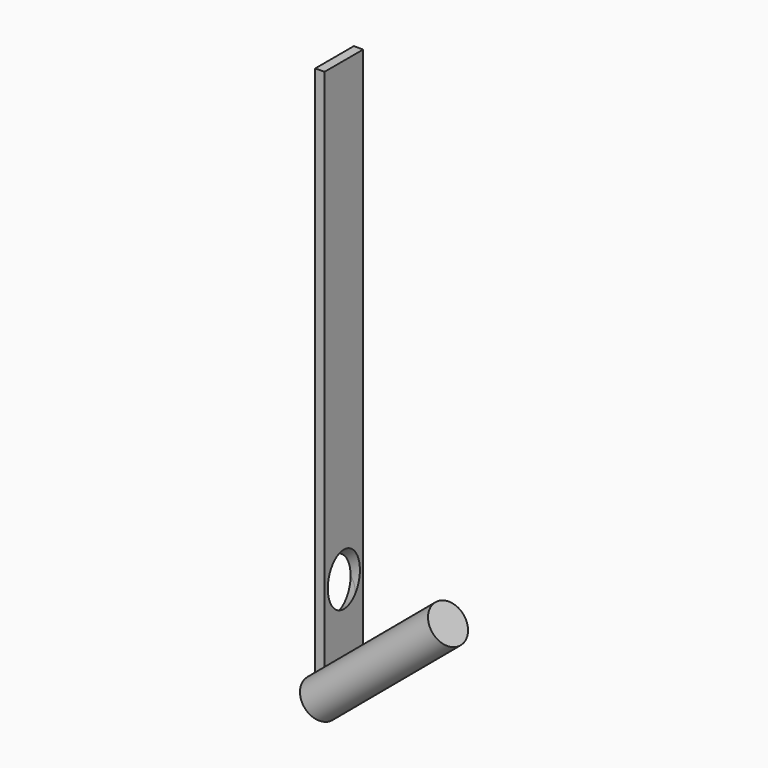
from build123d import *

# Parameters (mm, degrees)
F0_W          = 33.02
F0_H          = 381
F1_DEPTH      = 6.35
F3_R          = 13.716
F4_DEPTH      = 208.9504482893
F4_DEPTH_BACK = 40.8180132151
F5_R          = 13.335
F6_DEPTH      = 88.9
F6_DEPTH_BACK = 25.4


with BuildPart() as f1:
    # F0 (on Right) → F1 (new body)
    with BuildSketch(Plane.YZ):
        with Locations((0, 190.5)):
            Rectangle(F0_W, F0_H)
    extrude(amount=F1_DEPTH)

    # F3 (on line) → F4 (cut, two sides)
    with BuildSketch(Plane(origin=(31.2676461581, 0, 26.2366703591), x_dir=(0, 1, 0), z_dir=(0.7660444431, 0, 0.6427876097))) as f4_sk:
        with Locations((0, 48.6438221381)):
            Circle(F3_R)
    extrude(amount=F4_DEPTH, mode=Mode.SUBTRACT)
    extrude(f4_sk.sketch, amount=-F4_DEPTH_BACK, mode=Mode.SUBTRACT)


with BuildPart() as f6:
    # F5 (on line) → F6 (new body, two sides)
    with BuildSketch(Plane(origin=(31.2676461581, 0, 26.2366703591), x_dir=(0, 1, 0), z_dir=(0.7660444431, 0, 0.6427876097))) as f6_sk:
        with Locations((-27.2113421434, 0)):
            Circle(F5_R)
    extrude(amount=F6_DEPTH)
    extrude(f6_sk.sketch, amount=-F6_DEPTH_BACK)


solid = Compound([f1.part, f6.part])
